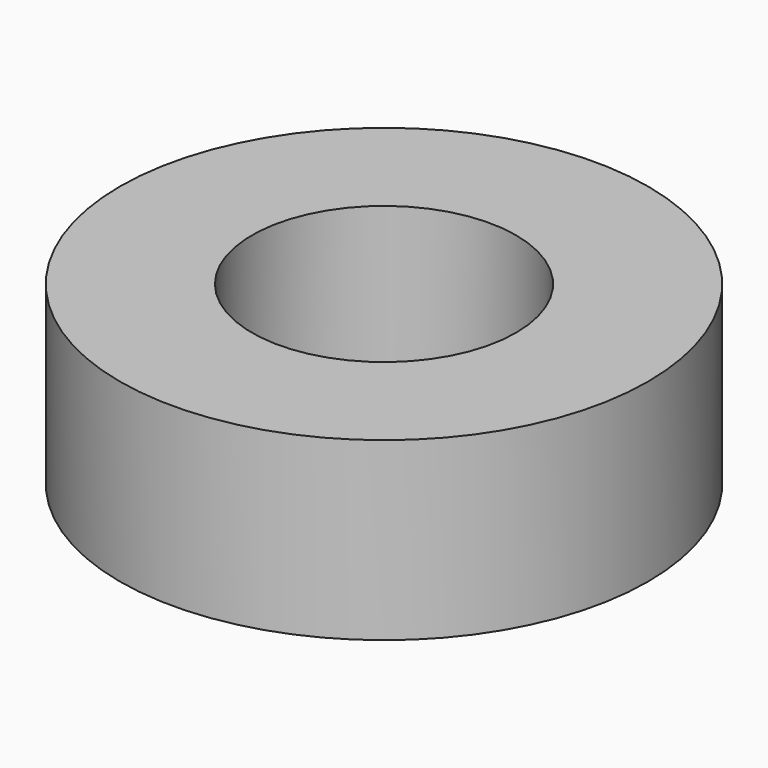
from build123d import *

# Parameters (mm, degrees)
F0_R     = 27.9199968723
F1_DEPTH = 55.372
F3_R     = 150
F3_R_2   = 75
F4_DEPTH = 100


with BuildPart() as f1:
    # F0 (on Top) → F1 (new body)
    with BuildSketch(Plane.XY):
        with Locations((0, -4.4582164846)):
            Circle(F0_R)
    extrude(amount=F1_DEPTH)


with BuildPart() as f4:
    # F3 (on Top) → F4 (new body)
    with BuildSketch(Plane.XY):
        Circle(F3_R)
        Circle(F3_R_2, mode=Mode.SUBTRACT)
    extrude(amount=F4_DEPTH)


solid = f4.part
